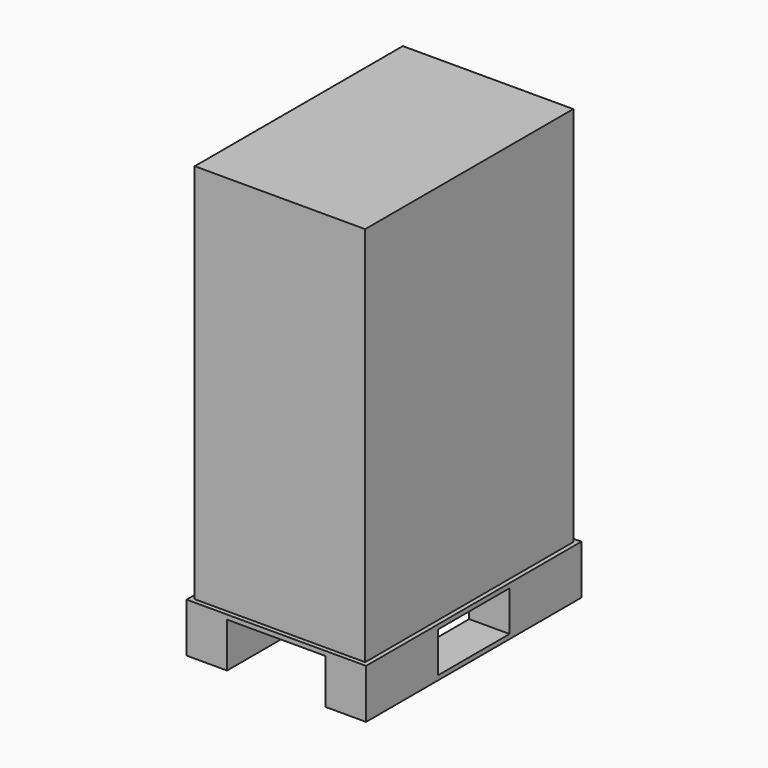
from build123d import *

# Parameters (mm, degrees)
F0_W     = 400
F0_H     = 600
F1_DEPTH = 110
F2_W     = 220
F2_H     = 100
F2_H_2   = 177.977299
F3_DEPTH = 600.001
F4_W     = 200
F4_H     = 90
F5_DEPTH = 401
F6_W     = 380
F6_H     = 580
F7_DEPTH = 850


with BuildPart() as f1:
    # F0 (on Top) → F1 (new body)
    with BuildSketch(Plane.XY):
        with Locations((-45.659611, 95.696688)):
            Rectangle(F0_W, F0_H)
    extrude(amount=F1_DEPTH)

    # F2 (on face) → F3 (cut, through all)
    with BuildSketch(Plane.XZ.offset(204.303312)):
        with Locations((-45.659611, 50)):
            Rectangle(F2_W, F2_H)
        with Locations((-45.659611, -88.988649)):
            Rectangle(F2_W, F2_H_2)
    extrude(amount=-F3_DEPTH, mode=Mode.SUBTRACT)

    # F4 (on face) → F5 (cut)
    with BuildSketch(Plane(origin=(-245.659611, 0, 0), x_dir=(0, -1, 0), z_dir=(-1, 0, 0))):
        with Locations((-95.696688, 55)):
            Rectangle(F4_W, F4_H)
    extrude(amount=-F5_DEPTH, mode=Mode.SUBTRACT)

    # F6 (on face) → F7 (join)
    with BuildSketch(Plane.XY.offset(110)):
        with Locations((-45.659611, 95.696688)):
            Rectangle(F6_W, F6_H)
    extrude(amount=F7_DEPTH)


solid = f1.part
